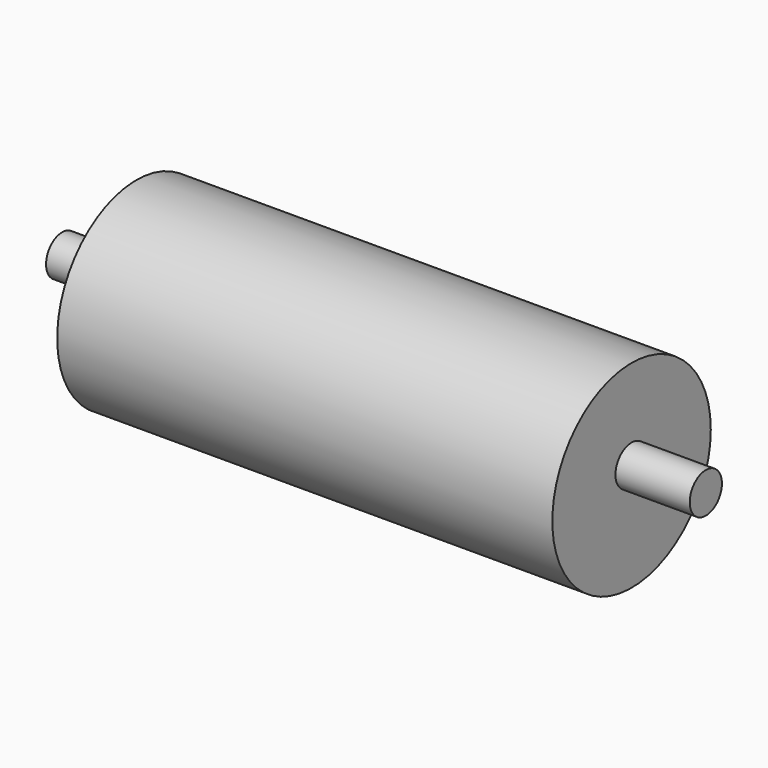
from build123d import *

# Parameters (mm, degrees)
F0_R     = 10.31875
F1_DEPTH = 165.1
F2_R     = 50.8
F3_DEPTH = 127


with BuildPart() as f1:
    # F0 (on Right) → F1 (new body, symmetric)
    with BuildSketch(Plane.YZ):
        Circle(F0_R)
    extrude(amount=F1_DEPTH, both=True)

    # F2 (on Right) → F3 (join, symmetric)
    with BuildSketch(Plane.YZ):
        with Locations((0, -4.51501)):
            Circle(F2_R)
    extrude(amount=F3_DEPTH, both=True)


solid = f1.part
